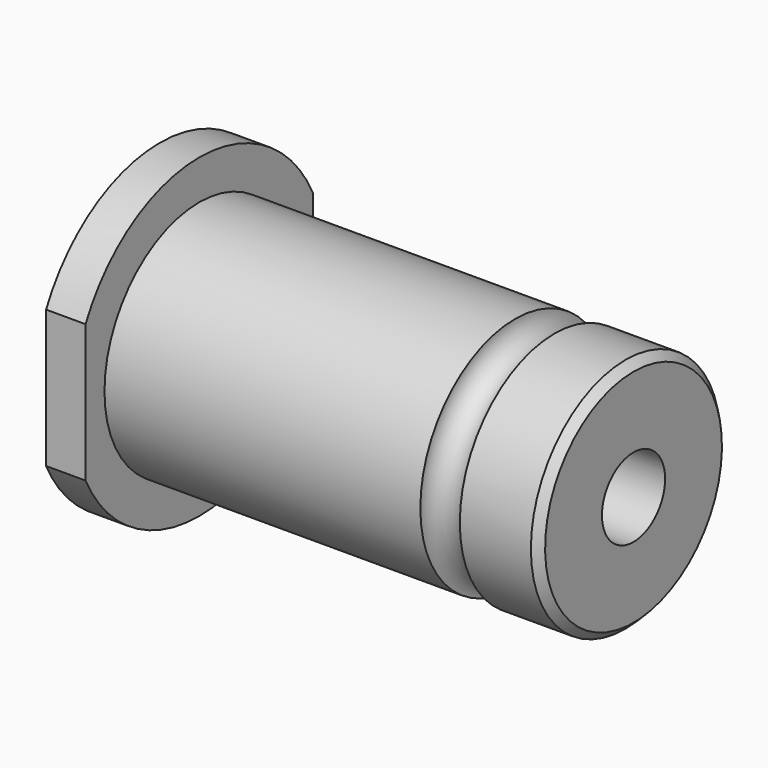
from build123d import *

# Parameters (mm, degrees)
F2_R     = 2.5
F4_SIZE  = 1
F5_R     = 5
F6_DEPTH = 60.001
F8_DEPTH = 5


with BuildPart() as f1:
    # F0 (on Front) → F1 (revolve)
    with BuildSketch(Plane.XZ):
        Polygon((0, 20), (0, 0), (60, 0), (60, 15), (5, 15), (5, 20), align=None)
    revolve(axis=Axis((30, 0, 0), (-1, 0, 0)))

    # F2 (on Front) → F3 (revolve, cut)
    with BuildSketch(Plane.XZ):
        with Locations((47.5, 15)):
            Circle(F2_R)
    revolve(axis=Axis((60, 0, 0), (-1, 0, 0)), mode=Mode.SUBTRACT)

    # F4
    f4_edges = [f1.edges().sort_by_distance(p)[0] for p in [
        (60, 0, -15),
    ]]
    chamfer(f4_edges, length=F4_SIZE)

    # F5 (on face) → F6 (cut, through all)
    with BuildSketch(Plane.YZ.offset(60)):
        Circle(F5_R)
    extrude(amount=-F6_DEPTH, mode=Mode.SUBTRACT)

    # F7 (on face) → F8 (cut, through all)
    with BuildSketch(Plane(origin=(0, 0, 0), x_dir=(0, -1, 0), z_dir=(-1, 0, 0))):
        with BuildLine():
            ThreePointArc((-18, 8.717798), (-20, 0), (-18, -8.717798))
            Line((-18, -8.717798), (-18, 8.717798))
        make_face()
        with BuildLine():
            Line((18, 8.717798), (18, -8.717798))
            ThreePointArc((18, -8.717798), (19.493589, -4.472136), (20, 0))
            ThreePointArc((20, 0), (19.493589, 4.472136), (18, 8.717798))
        make_face()
    extrude(amount=-F8_DEPTH, mode=Mode.SUBTRACT)


solid = f1.part
